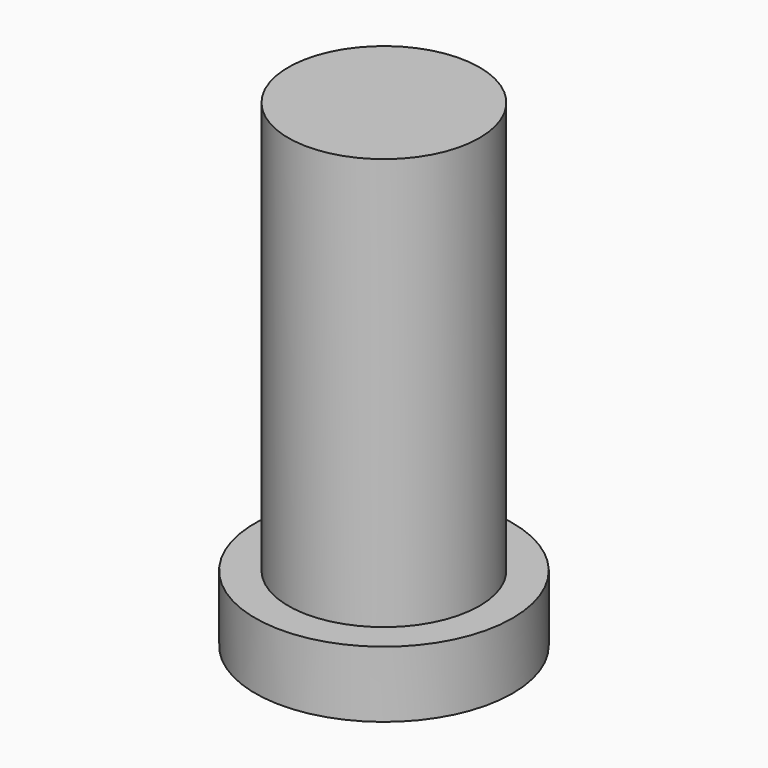
from build123d import *


with BuildPart() as part:
    # Sketch → Revolution (revolve)
    with BuildSketch(Plane.XZ):
        Polygon((0, 13), (2.6, 13), (2.6, 1.8), (3.5, 1.8), (3.5, 0), (0, 0), align=None)
    revolve(axis=Axis((0, 0, 0), (0, 0, 1)))


solid = part.part
